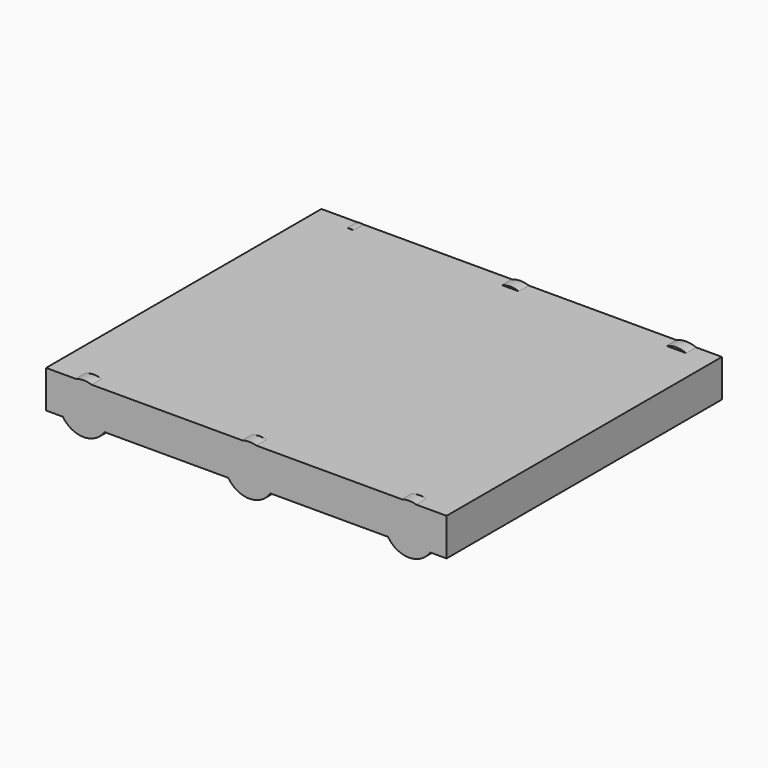
from build123d import *

# Parameters (mm, degrees)
F0_W     = 812.8
F0_H     = 76.2
F1_DEPTH = 698.5
F2_R     = 50.8
F3_DEPTH = 25.4
F5_R     = 52.824269
F5_R_2   = 51.150992
F5_R_3   = 47.107818
F6_DEPTH = 25.4


with BuildPart() as f1:
    # F0 (on Front) → F1 (new body)
    with BuildSketch(Plane.XZ):
        with Locations((131.72951, -4.131862)):
            Rectangle(F0_W, F0_H)
    extrude(amount=F1_DEPTH)

    # F2 (on face) → F3 (join)
    with BuildSketch(Plane.XZ.offset(698.5)):
        with Locations((461.92951, -14.740501)):
            Circle(F2_R)
        with Locations((137.779355, -14.777749)):
            Circle(F2_R)
        with Locations((-198.47049, -14.194834)):
            Circle(F2_R)
    extrude(amount=-F3_DEPTH)

    # F5 (on face) → F6 (join)
    with BuildSketch(Plane(origin=(0, 0, 0), x_dir=(-1, 0, 0), z_dir=(0, 1, 0))):
        with Locations((-465.801656, -14.819974)):
            Circle(F5_R)
        with Locations((-129.003808, -14.226768)):
            Circle(F5_R_2)
        with Locations((195.624262, -12.715756)):
            Circle(F5_R_3)
    extrude(amount=-F6_DEPTH)


solid = f1.part
